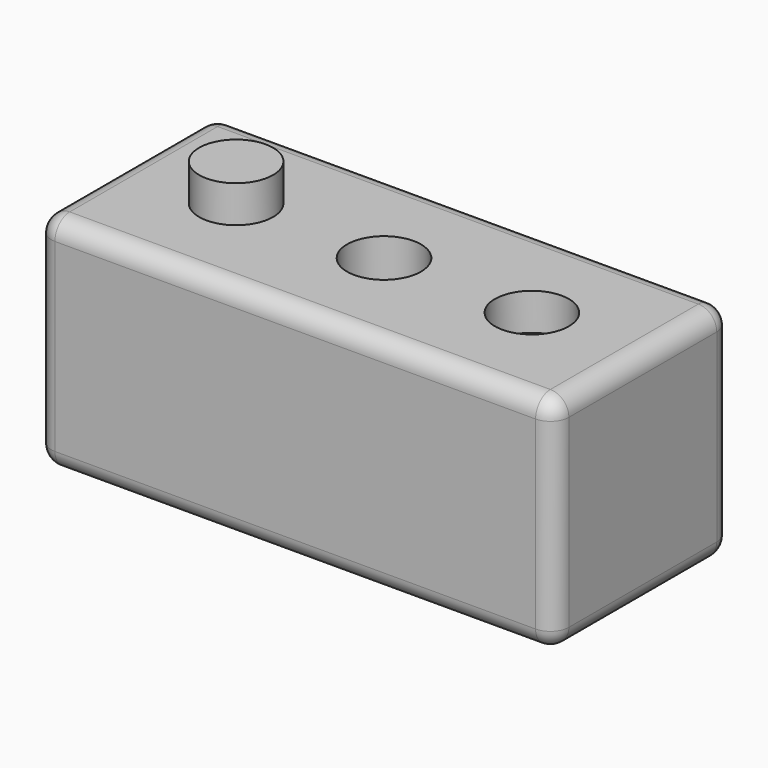
from build123d import *

# Parameters (mm, degrees)
F0_W     = 140
F0_H     = 60
F1_DEPTH = 60
F2_R     = 10
F5_DEPTH = 10
F3_R     = 10
F6_DEPTH = 10
F4_R     = 10
F7_DEPTH = 95.7
F8_R     = 5


with BuildPart() as f1:
    # F0 (on Top) → F1 (new body)
    with BuildSketch(Plane.XY):
        Rectangle(F0_W, F0_H)
    extrude(amount=F1_DEPTH)

    # F2 (on face) → F5 (join)
    with BuildSketch(Plane.XY.offset(60)):
        with Locations((-40, 0)):
            Circle(F2_R)
    extrude(amount=F5_DEPTH)

    # F3 (on face) → F6 (cut)
    with BuildSketch(Plane.XY.offset(60)):
        with Locations((40, 0)):
            Circle(F3_R)
    extrude(amount=-F6_DEPTH, mode=Mode.SUBTRACT)

    # F4 (on face) → F7 (cut)
    with BuildSketch(Plane.XY.offset(60)):
        Circle(F4_R)
    extrude(amount=-F7_DEPTH, mode=Mode.SUBTRACT)

    # F8
    f8_edges = [f1.edges().sort_by_distance(p)[0] for p in [
        (-70, 0, 60),
        (0, -30, 60),
        (0, 30, 60),
        (70, 0, 60),
        (-70, -30, 30),
        (70, -30, 30),
        (-70, 30, 30),
        (70, 30, 30),
        (0, 30, 0),
        (-70, 0, 0),
        (0, -30, 0),
        (70, 0, 0),
    ]]
    fillet(f8_edges, radius=F8_R)


solid = f1.part
